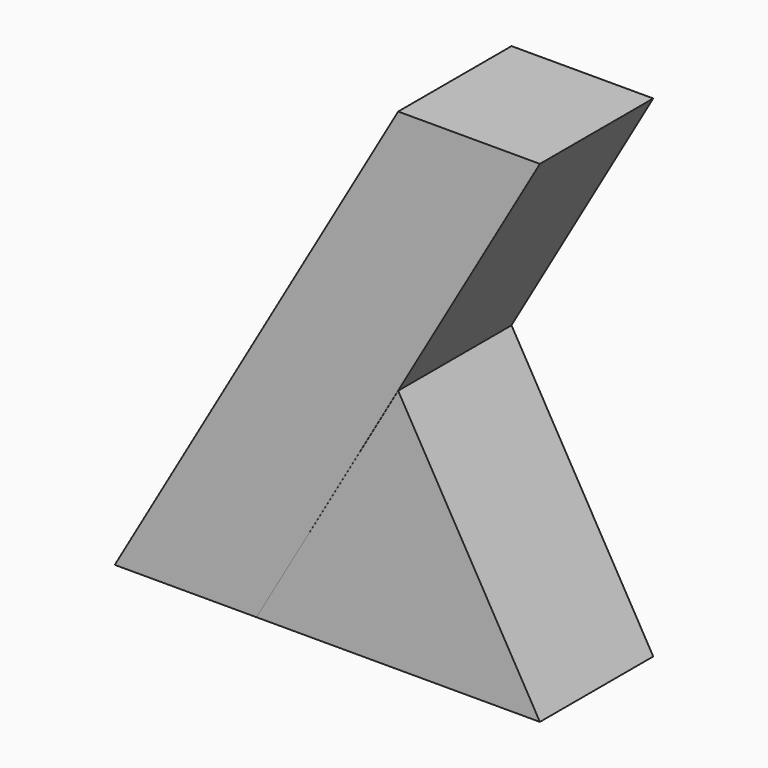
from build123d import *

# Parameters (mm, degrees)
F1_DEPTH = 30
F2_W     = 30
F2_H     = 30
F4_W     = 30
F4_H     = 30


with BuildPart() as f1:
    # F0 (on Front) → F1 (new body)
    with BuildSketch(Plane.XZ):
        Polygon((60, 51.961524), (30, 0), (90, 0), align=None)
    extrude(amount=-F1_DEPTH)


with BuildPart() as f5:
    # F2 (on Top) → F5 section 0
    with BuildSketch(Plane.XY):
        with Locations((15, 15)):
            Rectangle(F2_W, F2_H)
    # F4 (on offset) → F5 section 1
    with BuildSketch(Plane.XY.offset(104)):
        with Locations((75, 15)):
            Rectangle(F4_W, F4_H)
    loft()


solid = Compound([f1.part, f5.part])
